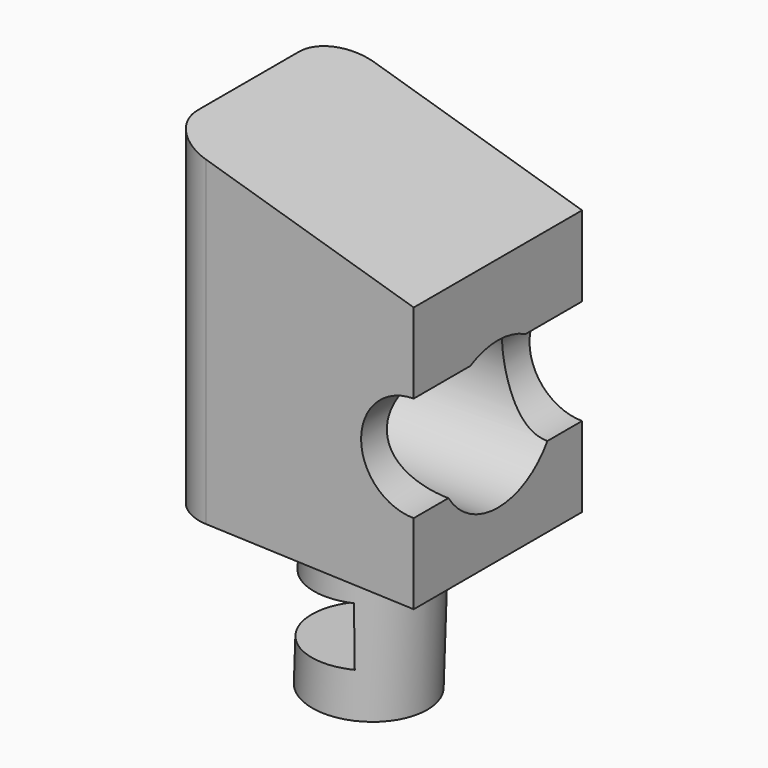
from build123d import *

# Parameters (mm, degrees)
F1_DEPTH  = 25.4
F2_R      = 8.894978
F3_DEPTH  = 12.7
F4_DEPTH  = 25.4
F5_R      = 7.065357
F6_DEPTH  = 19.05
F7_W      = 13.161447
F7_H      = 7.129116
F8_DEPTH  = 25.401
F9_R      = 6.35
F10_DEPTH = 25.401
F11_R     = 5.08
F12_R     = 5.08


with BuildPart() as f1:
    # F0 (on Front) → F1 (new body)
    with BuildSketch(Plane.XZ):
        Polygon((-8.872092, 41.864544), (-39.002884, 50.96459), (-39.002884, 10.889949), (-8.872092, 9.806205), align=None)
    extrude(amount=F1_DEPTH)

    # F2 (on face) → F3 (join)
    with BuildSketch(Plane.YZ.offset(-8.872092)):
        with Locations((-12.7, 24.323635)):
            Circle(F2_R)
    extrude(amount=-F3_DEPTH)

    # F2 (on face) → F4 (cut)
    with BuildSketch(Plane.YZ.offset(-8.872092)):
        with Locations((-12.7, 24.323635)):
            Circle(F2_R)
    extrude(amount=-F4_DEPTH, mode=Mode.SUBTRACT)

    # F5 (on face) → F6 (join)
    with BuildSketch(Plane(origin=(0.340791, 0, 9.474836), x_dir=(0.999354, 0, -0.035945), z_dir=(-0.035945, 0, -0.999354))):
        with Locations((-24.293978, 12.492171)):
            Circle(F5_R)
    extrude(amount=F6_DEPTH)

    # F7 (on Front) → F8 (cut, through all)
    with BuildSketch(Plane.XZ):
        with Locations((-27.840523, 0.226574)):
            Rectangle(F7_W, F7_H)
    extrude(amount=F8_DEPTH, mode=Mode.SUBTRACT)

    # F9 (on face) → F10 (cut, through all)
    with BuildSketch(Plane(origin=(0, 0, 0), x_dir=(-1, 0, 0), z_dir=(0, 1, 0))):
        with Locations((8.872092, 25.835374)):
            Circle(F9_R)
    extrude(amount=-F10_DEPTH, mode=Mode.SUBTRACT)

    # F11
    f11_edges = [f1.edges().sort_by_distance(p)[0] for p in [
        (-39.002884, 0, 30.92727),
    ]]
    fillet(f11_edges, radius=F11_R)

    # F12
    f12_edges = [f1.edges().sort_by_distance(p)[0] for p in [
        (-39.002884, -25.4, 30.92727),
    ]]
    fillet(f12_edges, radius=F12_R)


solid = f1.part
